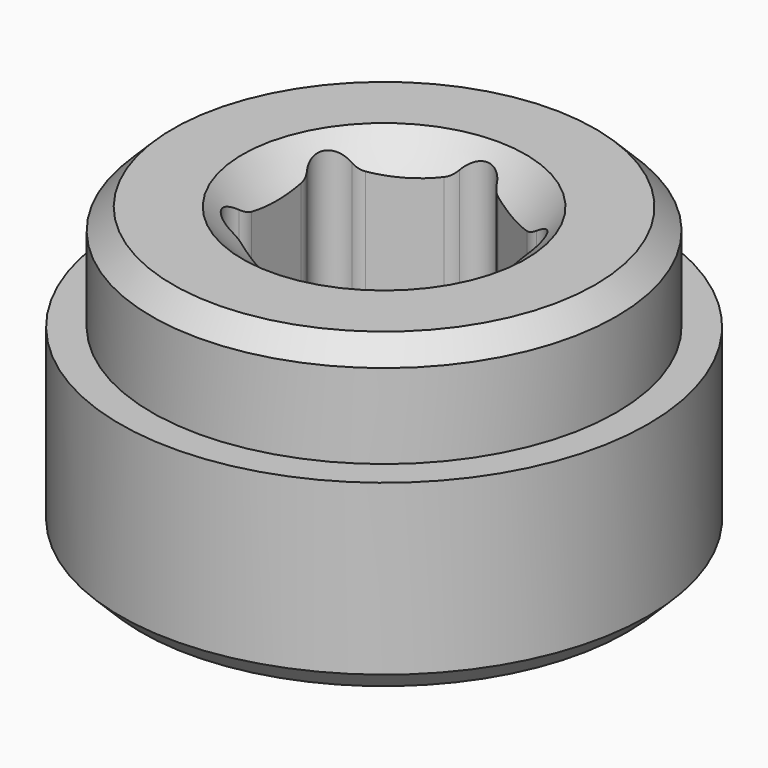
from build123d import *

# Parameters (mm, degrees)
F0_R     = 12.5
F1_DEPTH = 14
F2_R     = 12.5
F2_R_2   = 11
F3_DEPTH = 5
F4_R     = 1
F5_DEPTH = 14.001
F6_R     = 1
F7_SIZE  = 1


with BuildPart() as f1:
    # F0 (on Top) → F1 (new body)
    with BuildSketch(Plane.XY):
        Circle(F0_R)
        Polygon((5.1, 2.9444863729), (5.1, -2.9444863729), (0, -5.8889727457), (-5.1, -2.9444863729), (-5.1, 2.9444863729), (0, 5.8889727457), align=None, mode=Mode.SUBTRACT)
    extrude(amount=F1_DEPTH)

    # F2 (on face) → F3 (cut)
    with BuildSketch(Plane.XY.offset(14)):
        Circle(F2_R)
        Circle(F2_R_2, mode=Mode.SUBTRACT)
    extrude(amount=-F3_DEPTH, mode=Mode.SUBTRACT)

    # F4 (on face) → F5 (cut, through all)
    with BuildSketch(Plane.XY.offset(14)):
        with Locations((0, 5.1)):
            Circle(F4_R)
        with Locations((-4.4167295593, 2.55)):
            Circle(F4_R)
        with Locations((-4.4167295593, -2.55)):
            Circle(F4_R)
        with Locations((0, -5.1)):
            Circle(F4_R)
        with Locations((4.4167295593, -2.55)):
            Circle(F4_R)
        with Locations((4.4167295593, 2.55)):
            Circle(F4_R)
    extrude(amount=-F5_DEPTH, mode=Mode.SUBTRACT)

    # F6
    f6_edges = [f1.edges().sort_by_distance(p)[0] for p in [
        (-5.1, 1.819835, 7),
        (-5.1, -1.819835, 7),
        (-4.126023, -3.506812, 7),
        (-0.973977, -5.326647, 7),
        (0.973977, -5.326647, 7),
        (4.126023, -3.506812, 7),
        (5.1, -1.819835, 7),
        (5.1, 1.819835, 7),
        (4.126023, 3.506812, 7),
        (0.973977, 5.326647, 7),
        (-0.973977, 5.326647, 7),
        (-4.126023, 3.506812, 7),
    ]]
    fillet(f6_edges, radius=F6_R)

    # F7
    f7_edges = [f1.edges().sort_by_distance(p)[0] for p in [
        (-11, 0, 14),
        (-12.5, 0, 0),
    ]]
    chamfer(f7_edges, length=F7_SIZE)

    # F8 (on Right) → F9 (revolve, cut)
    with BuildSketch(Plane.YZ):
        with BuildLine():
            Line((0, 3), (0, -15))
            ThreePointArc((0, -15), (9, -6), (0, 3))
        make_face()
        with BuildLine():
            Line((0, 29), (0, 11))
            ThreePointArc((0, 11), (9, 20), (0, 29))
        make_face()
    revolve(axis=Axis((0, 0, -6), (0, 0, 1)), mode=Mode.SUBTRACT)


solid = f1.part
